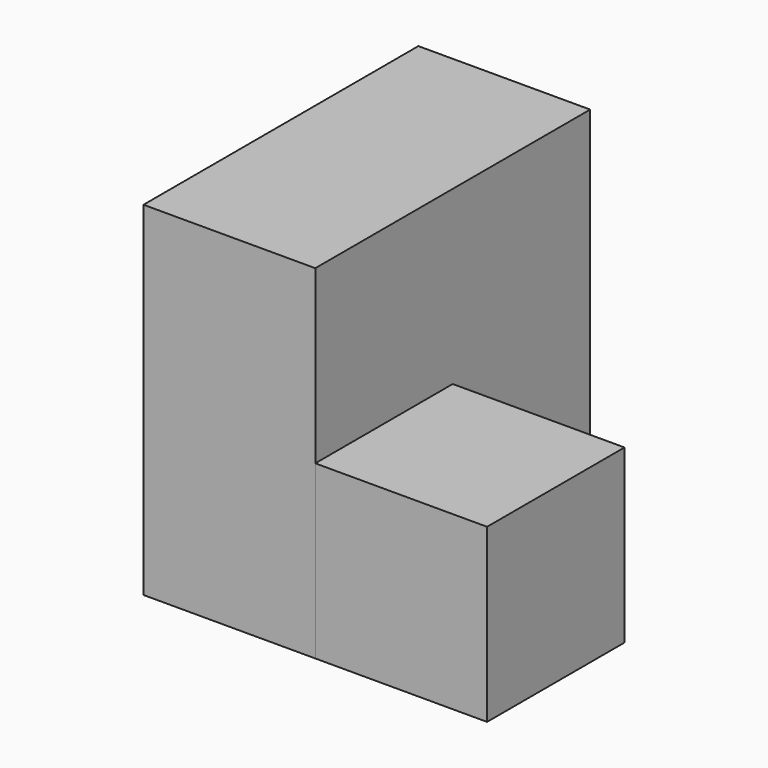
from build123d import *

# Parameters (mm, degrees)
F0_W     = 25.4
F0_H     = 50.8
F1_DEPTH = 50.8
F2_W     = 25.4
F2_H     = 25.4
F3_DEPTH = 25.4


with BuildPart() as f1:
    # F0 (on Front) → F1 (new body)
    with BuildSketch(Plane.XZ):
        with Locations((-12.7, 25.4)):
            Rectangle(F0_W, F0_H)
    extrude(amount=F1_DEPTH)


with BuildPart() as f3:
    # F2 (on face) → F3 (new body)
    with BuildSketch(Plane.YZ):
        with Locations((-38.1, 12.7)):
            Rectangle(F2_W, F2_H)
    extrude(amount=F3_DEPTH)


solid = Compound([f1.part, f3.part])
